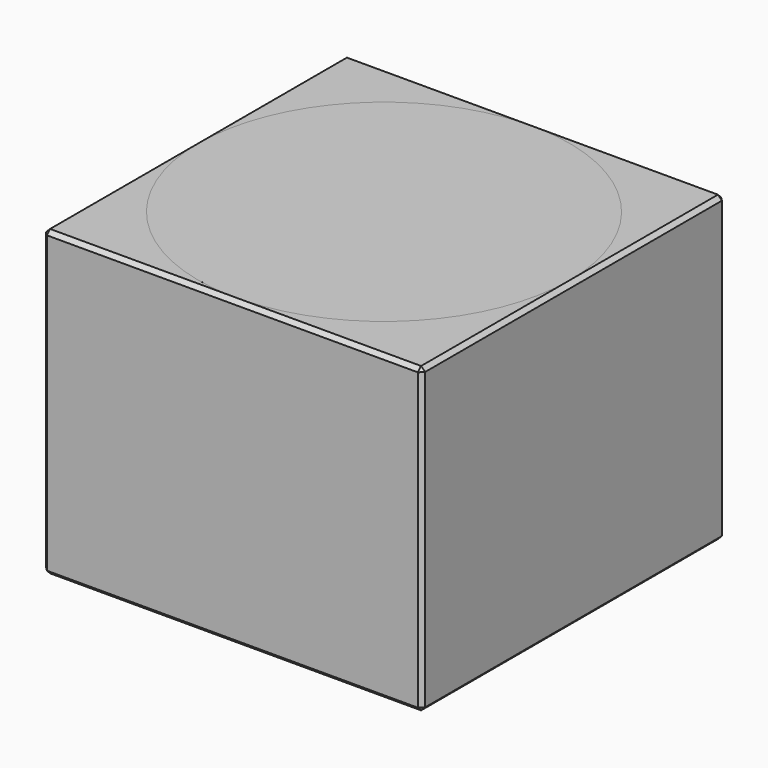
from build123d import *

# Parameters (mm, degrees)
SKETCH_W        = 95
SKETCH_H        = 95
PAD_DEPTH       = 76
CHAMFER_SIZE    = 1
PAD001_DEPTH    = 76
CHAMFER001_SIZE = 1
SKETCH002_R     = 47.5
PAD002_DEPTH    = 76
CHAMFER002_SIZE = 1


with BuildPart() as obj1:
    # Sketch → Pad (new body)
    with BuildSketch(Plane.XY):
        Rectangle(SKETCH_W, SKETCH_H)
    extrude(amount=PAD_DEPTH)

    # Chamfer
    chamfer_edges = [obj1.edges().sort_by_distance(p)[0] for p in [
        (47.5, -47.5, 38),
        (-47.5, 47.5, 38),
        (-47.5, -47.5, 38),
        (47.5, 47.5, 38),
        (-47.5, 0, 76),
        (0, 47.5, 76),
        (47.5, 0, 76),
        (0, -47.5, 76),
        (-47.5, 0, 0),
        (0, 47.5, 0),
        (47.5, 0, 0),
        (0, -47.5, 0),
    ]]
    chamfer(chamfer_edges, length=CHAMFER_SIZE)


with BuildPart() as obj2:
    # Sketch001 → Pad001 (new body)
    with BuildSketch(Plane.XY):
        Polygon((47.5, 0), (23.75, 41.136207), (-23.75, 41.136207), (-47.5, 0), (-23.75, -41.136207), (23.75, -41.136207), align=None)
    extrude(amount=PAD001_DEPTH)

    # Chamfer001
    chamfer001_edges = [obj2.edges().sort_by_distance(p)[0] for p in [
        (35.625, 20.568103, 76),
        (0, 41.136207, 76),
        (-35.625, 20.568103, 76),
        (-35.625, -20.568103, 76),
        (0, -41.136207, 76),
        (35.625, -20.568103, 76),
        (35.625, 20.568103, 0),
        (0, 41.136207, 0),
        (-35.625, 20.568103, 0),
        (-35.625, -20.568103, 0),
        (0, -41.136207, 0),
        (35.625, -20.568103, 0),
    ]]
    chamfer(chamfer001_edges, length=CHAMFER001_SIZE)


with BuildPart() as obj3:
    # Sketch002 → Pad002 (new body)
    with BuildSketch(Plane.XY):
        Circle(SKETCH002_R)
    extrude(amount=PAD002_DEPTH)

    # Chamfer002
    chamfer002_edges = [obj3.edges().sort_by_distance(p)[0] for p in [
        (-47.5, 0, 76),
        (-47.5, 0, 0),
    ]]
    chamfer(chamfer002_edges, length=CHAMFER002_SIZE)


solid = Compound([obj1.part, obj2.part, obj3.part])
